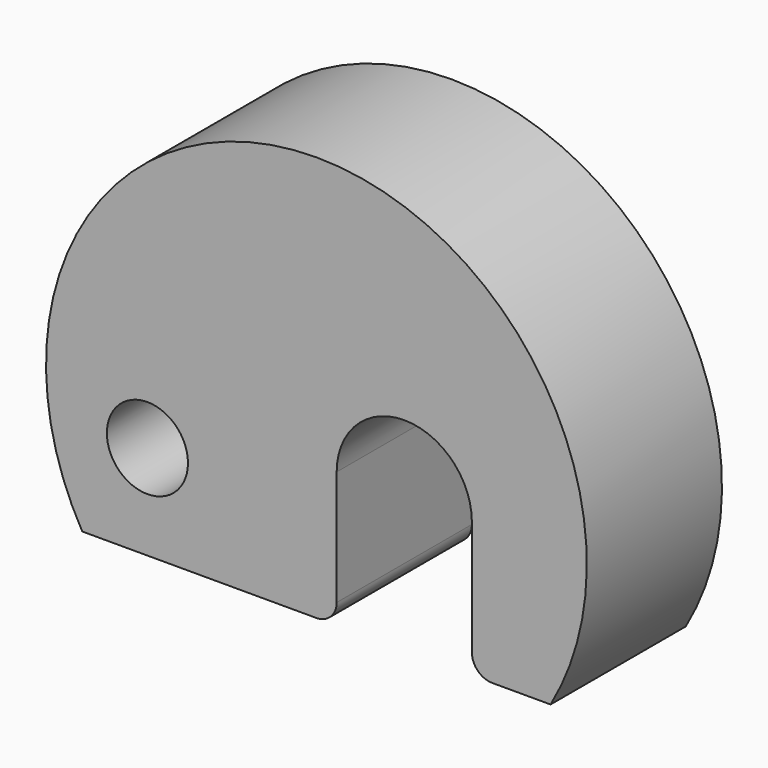
from build123d import *

# Parameters (mm, degrees)
F0_R     = 6
F1_DEPTH = 25


with BuildPart() as f1:
    # F0 (on Front) → F1 (new body)
    with BuildSketch(Plane.XZ):
        with BuildLine():
            Line((26, -20), (34.641016, -20))
            ThreePointArc((34.641016, -20), (0, 40), (-34.641016, -20))
            Line((-34.641016, -20), (-23.449086, -20))
            Line((-23.449086, -20), (0, -20))
            ThreePointArc((0, -20), (2.12132, -19.12132), (3, -17))
            Line((3, -17), (3, 0))
            ThreePointArc((3, 0), (13, 10), (23, 0))
            Line((23, 0), (23, -17))
            ThreePointArc((23, -17), (23.87868, -19.12132), (26, -20))
        make_face()
        with Locations((-25, -6)):
            Circle(F0_R, mode=Mode.SUBTRACT)
    extrude(amount=F1_DEPTH)


solid = f1.part
